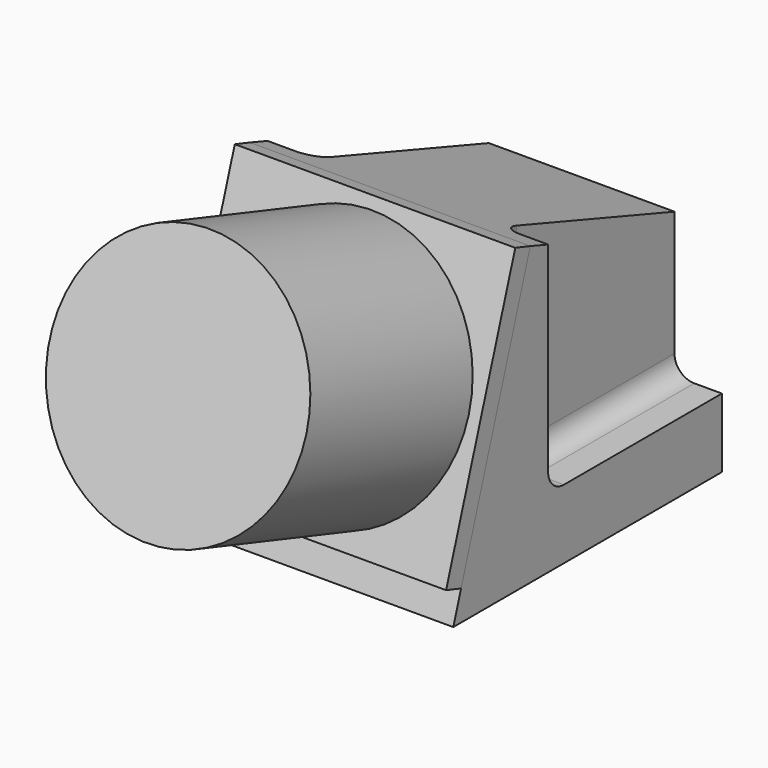
from build123d import *

# Parameters (mm, degrees)
F0_W      = 71
F0_H      = 85
F1_DEPTH  = 75
F3_W      = 71
F3_H      = 103.9073709636
F4_DEPTH  = 23.1772745781
F6_W      = 71
F6_H      = 81.7453698828
F7_DEPTH  = 19.7405301902
F9_W      = 12
F9_H      = 55
F10_DEPTH = 57.501
F11_R     = 5
F12_R     = 11
F13_DEPTH = 7.5
F14_R     = 3.25
F15_DEPTH = 25
F16_W     = 71
F16_H     = 70.8596668179
F17_DEPTH = 5
F18_R     = 32.5
F19_DEPTH = 54


with BuildPart() as f1:
    # F0 (on Top) → F1 (new body)
    with BuildSketch(Plane.XY):
        Rectangle(F0_W, F0_H)
    extrude(amount=F1_DEPTH)

    # F3 (on face) → F4 (cut, through all)
    with BuildSketch(Plane(origin=(0, -38.4416111305, 12.4904366112), x_dir=(1, 0, 0), z_dir=(0, -0.9510565163, 0.3090169944))):
        with Locations((0, 38.8204632208)):
            Rectangle(F3_W, F3_H)
    extrude(amount=F4_DEPTH, mode=Mode.SUBTRACT)

    # F6 (on face) → F7 (cut, through all)
    with BuildSketch(Plane(origin=(0, 21.1655143967, 61.4691171425), x_dir=(1, 0, 0), z_dir=(0, 0.3255681545, 0.9455185756))):
        with Locations((0, -0.6881454784)):
            Rectangle(F6_W, F6_H)
    extrude(amount=F7_DEPTH, mode=Mode.SUBTRACT)

    # F9 (on offset) → F10 (cut, through all)
    with BuildSketch(Plane.XY.offset(17.5)):
        with Locations((-29.5, 15)):
            Rectangle(F9_W, F9_H)
        with Locations((29.5, 15)):
            Rectangle(F9_W, F9_H)
    extrude(amount=F10_DEPTH, mode=Mode.SUBTRACT)

    # F11
    f11_edges = [f1.edges().sort_by_distance(p)[0] for p in [
        (-23.5, 15, 17.5),
        (-29.5, -12.5, 17.5),
        (-23.5, -12.5, 45.280542),
        (23.5, -12.5, 45.280542),
        (29.5, -12.5, 17.5),
        (23.5, 15, 17.5),
    ]]
    fillet(f11_edges, radius=F11_R)

    # F12 (on face) → F13 (join)
    with BuildSketch(Plane(origin=(0, 42.5, 0), x_dir=(-1, 0, 0), z_dir=(0, 1, 0))):
        with Locations((0, 20)):
            Circle(F12_R)
    extrude(amount=F13_DEPTH)

    # F14 (on face) → F15 (cut)
    with BuildSketch(Plane(origin=(0, 50, 0), x_dir=(-1, 0, 0), z_dir=(0, 1, 0))):
        with Locations((0, 20)):
            Circle(F14_R)
    extrude(amount=-F15_DEPTH, mode=Mode.SUBTRACT)


with BuildPart() as f17:
    # F16 (on face) → F17 (new body)
    with BuildSketch(Plane(origin=(0, -38.4416111305, 12.4904366112), x_dir=(1, 0, 0), z_dir=(0, -0.9510565163, 0.3090169944))):
        with Locations((0, 30.296611148)):
            Rectangle(F16_W, F16_H)
    extrude(amount=F17_DEPTH)

    # F18 (on face) → F19 (join)
    with BuildSketch(Plane(origin=(0, -43.1968937119, 14.0355215831), x_dir=(1, 0, 0), z_dir=(0, -0.9510565163, 0.3090169944))):
        with Locations((0, 30.296611148)):
            Circle(F18_R)
    extrude(amount=F19_DEPTH)


solid = Compound([f1.part, f17.part])
